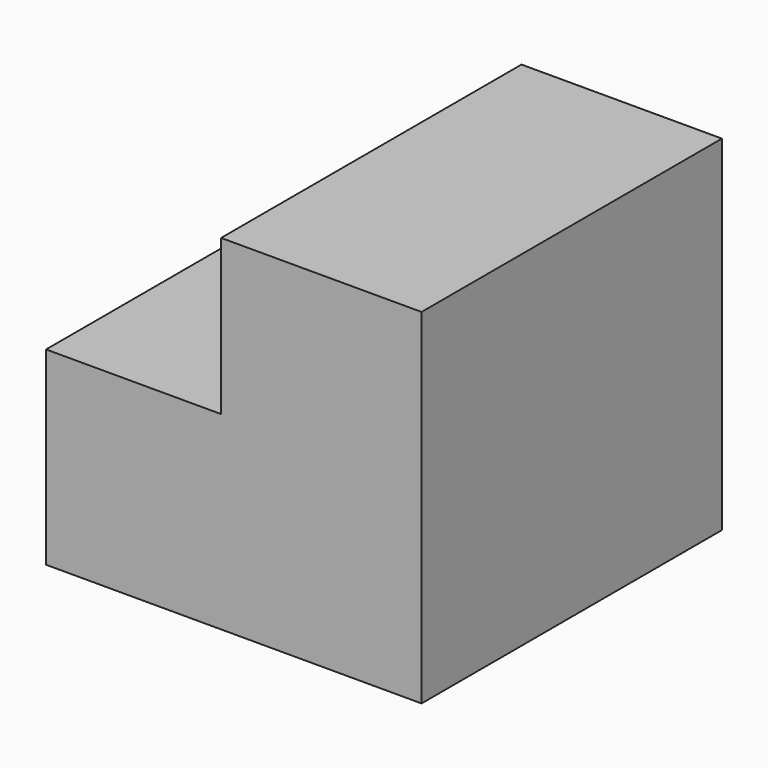
from build123d import *

# Parameters (mm, degrees)
F0_W     = 25.4
F0_H     = 23.3165774701
F1_DEPTH = 12.7
F3_DEPTH = 25.4
F4_W     = 0.2736736362
F4_H     = 1.0221730918
F4_W_2   = 2.3645318859
F4_W_3   = 0.3372822987
F4_H_2   = 1.0734191164
F4_W_4   = 2.6054769249
F5_DEPTH = 17.78
F7_DEPTH = 25.4


with BuildPart() as f1:
    # F0 (on Front) → F1 (new body, symmetric)
    with BuildSketch(Plane.XZ):
        Rectangle(F0_W, F0_H)
    extrude(amount=F1_DEPTH, both=True)

    # F2 (on face) → F3 (cut)
    with BuildSketch(Plane.XZ.offset(12.7)):
        Polygon((-12.7, 4.811515566), (-3.9780791849, 11.6582887351), (-12.7, 11.6582887351), align=None)
    extrude(amount=-F3_DEPTH, mode=Mode.SUBTRACT)

    # F4 (on face) → F5 (cut)
    with BuildSketch(Plane(origin=(-7.1791973158, 0, 9.1453870251), x_dir=(0.7865883501, 0, 0.6174777466), z_dir=(-0.6174777466, 0, 0.7865883501))):
        with Locations((4.2064599323, 6.4000822604)):
            Rectangle(F4_W, F4_H)
        with Locations((2.8873571713, 6.4000822604)):
            Rectangle(F4_W_2, F4_H)
        with Locations((4.2382642636, 4.0104491636)):
            Rectangle(F4_W_3, F4_H_2)
        with Locations((2.7668846518, 4.0104491636)):
            Rectangle(F4_W_4, F4_H_2)
    extrude(amount=-F5_DEPTH, mode=Mode.SUBTRACT)

    # F6 (on face) → F7 (cut)
    with BuildSketch(Plane.XZ.offset(12.7)):
        Polygon((-21.5201042593, 1.1665492784), (-12.7, 1.1665492784), (-12.7, 4.811515566), (-3.9780791849, 11.6582887351), (-0.8602180751, 11.6582887351), (-0.8602180751, 16.2579510361), (-21.5201042593, 16.2579510361), align=None)
        Polygon((-12.7, 1.1665492784), (-0.8602180751, 1.1665492784), (-0.8602180751, 11.6582887351), (-3.9780791849, 11.6582887351), (-12.7, 4.811515566), align=None)
    extrude(amount=-F7_DEPTH, mode=Mode.SUBTRACT)


solid = f1.part
